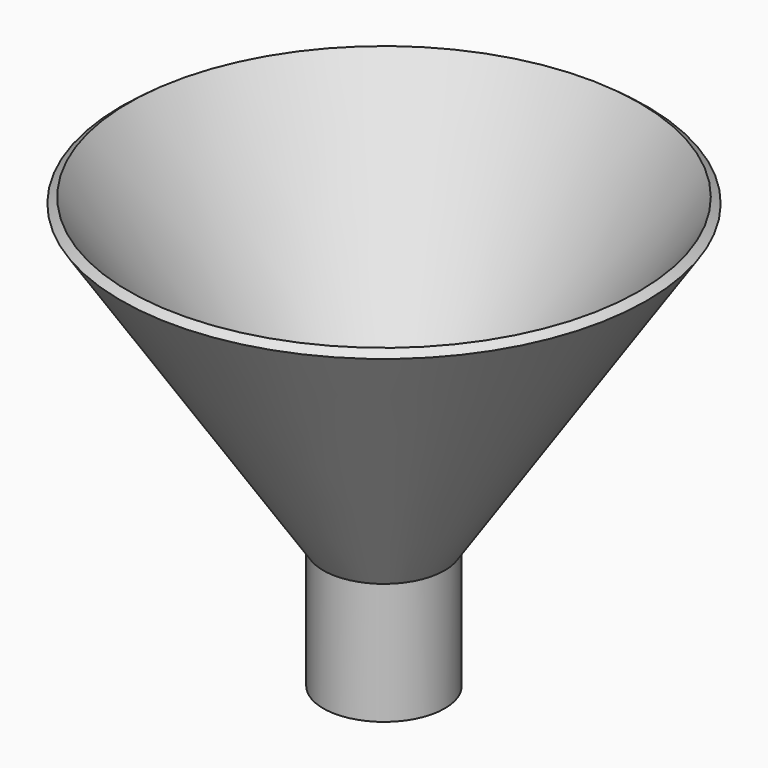
from build123d import *

# Parameters (mm, degrees)
F2_R     = 8.620675
F3_DEPTH = 25.4


with BuildPart() as f1:
    # F0 (on Front) → F1 (revolve)
    with BuildSketch(Plane.XZ):
        Polygon((0, -25.4), (0, 0), (42.268153, 63.402234), (40.654516, 64.606976), (-2.416799, 0), (-12.7, 0), (-12.7, -20.814057), (-12.7, -25.4), align=None)
    revolve(axis=Axis((-12.7, 0, -10.407029), (0, 0, 1)))

    # F2 (on face) → F3 (cut)
    with BuildSketch(Plane.XY):
        with Locations((-12.7, 0)):
            Circle(F2_R)
    extrude(amount=-F3_DEPTH, mode=Mode.SUBTRACT)


solid = f1.part
